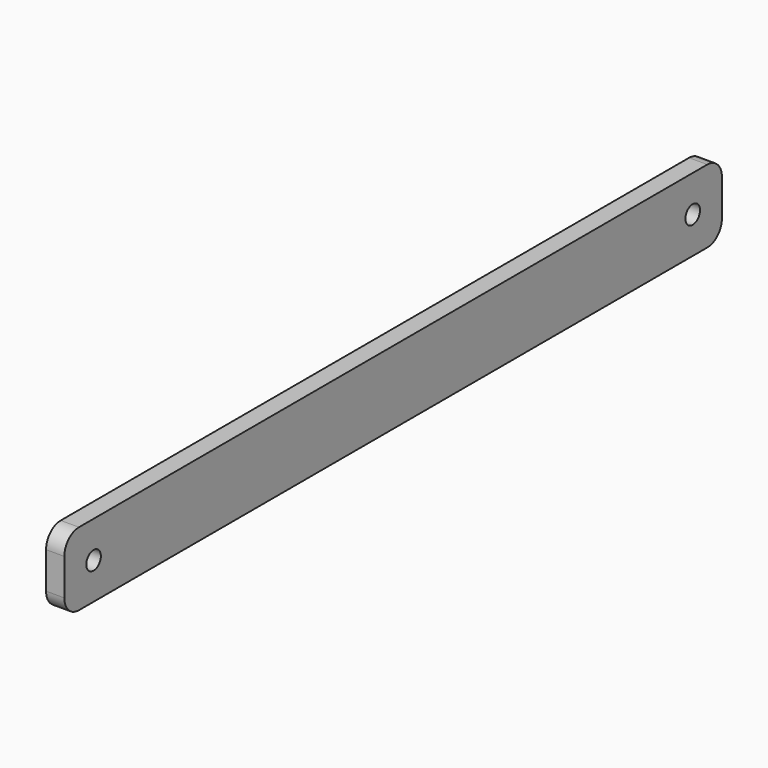
from build123d import *

# Parameters (mm, degrees)
F0_W     = 225
F0_H     = 20
F0_R     = 2.5
F1_DEPTH = 5
F2_R     = 5


with BuildPart() as f1:
    # F0 (on Right) → F1 (new body)
    with BuildSketch(Plane.YZ):
        with Locations((112.5, 10)):
            Rectangle(F0_W, F0_H)
        with Locations((10, 10)):
            Circle(F0_R, mode=Mode.SUBTRACT)
        with Locations((215, 10)):
            Circle(F0_R, mode=Mode.SUBTRACT)
    extrude(amount=-F1_DEPTH)

    # F2
    f2_edges = [f1.edges().sort_by_distance(p)[0] for p in [
        (-2.5, 0, 20),
        (-2.5, 0, 0),
        (-2.5, 225, 20),
        (-2.5, 225, 0),
    ]]
    fillet(f2_edges, radius=F2_R)


solid = f1.part
